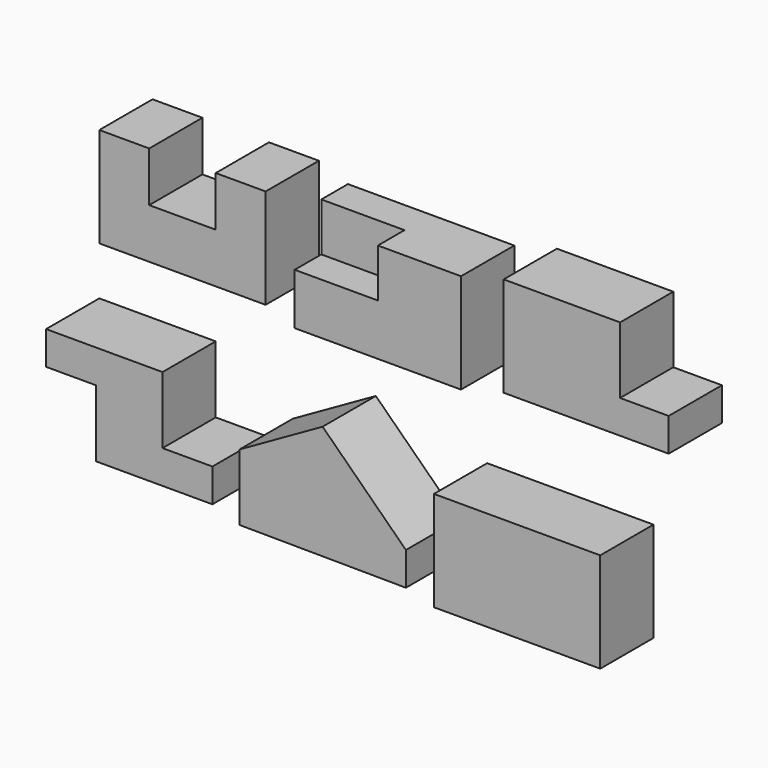
from build123d import *

# Parameters (mm, degrees)
F1_DEPTH  = 101.6
F2_W      = 254
F2_H      = 152.4
F3_DEPTH  = 25.4
F4_DEPTH  = 25.4
F5_DEPTH  = 101.6
F6_W      = 127
F6_H      = 50.8
F7_DEPTH  = 73.914
F8_W      = 50.8
F8_H      = 152.4
F9_DEPTH  = 101.6
F11_DEPTH = 101.6
F13_DEPTH = 101.6
F14_W     = 254
F14_H     = 152.4
F14_W_2   = 203.2
F14_H_2   = 101.6
F15_DEPTH = 101.6


with BuildPart() as f1:
    # F0 (on Front) → F1 (new body)
    with BuildSketch(Plane.XZ):
        Polygon((0, 152.4), (0, 0), (254, 0), (254, 152.4), (177.8, 152.4), (177.8, 76.2), (76.2, 76.2), (76.2, 152.4), align=None)
    extrude(amount=-F1_DEPTH)


with BuildPart() as f3:
    # F2 (on Front) → F3 (new body)
    with BuildSketch(Plane.XZ):
        with Locations((445.69599095, 76.2)):
            Rectangle(F2_W, F2_H)
    extrude(amount=F3_DEPTH)

    # F4 (add): a face of the model
    f4_faces = [f3.faces().sort_by_distance(p)[0] for p in [
        (445.69599095, -12.7, 152.4),
    ]]
    extrude(f4_faces, amount=-F4_DEPTH)

    # F5 (add): a face of the model
    f5_faces = [f3.faces().sort_by_distance(p)[0] for p in [
        (445.69599095, -25.4, 76.2),
    ]]
    extrude(f5_faces, amount=-F5_DEPTH)

    # F6 (on face) → F7 (cut)
    with BuildSketch(Plane.XY.offset(152.4)):
        with Locations((382.19599095, 0)):
            Rectangle(F6_W, F6_H)
    extrude(amount=-F7_DEPTH, mode=Mode.SUBTRACT)


with BuildPart() as f9:
    # F8 (on Front) → F9 (new body)
    with BuildSketch(Plane.XZ):
        Polygon((668.2515941393, 152.4), (668.2515941393, 0), (869.4976955753, 0), (869.4976955753, 50.8), (795.2515941393, 50.8), (795.2515941393, 152.4), align=None)
        with Locations((642.8515941393, 76.2)):
            Rectangle(F8_W, F8_H)
    extrude(amount=-F9_DEPTH)


with BuildPart() as f11:
    # F10 (on Front) → F11 (new body)
    with BuildSketch(Plane.XZ):
        Polygon((177.8, -73.8908549448), (0, -73.8908549448), (0, -124.6908549448), (76.2, -124.6908549448), (76.2, -226.9003139168), (254, -226.9003139168), (254, -176.1003139168), (177.8, -176.1003139168), align=None)
    extrude(amount=F11_DEPTH)


with BuildPart() as f13:
    # F12 (on Front) → F13 (new body)
    with BuildSketch(Plane.XZ):
        Polygon((295.5057420384, -139.5811057088), (295.5057420384, -241.1811057088), (549.4994439671, -242.9697869319), (549.4994439671, -192.1697869319), (422.2727364604, -67.8086321592), align=None)
    extrude(amount=F13_DEPTH)


with BuildPart() as f15:
    # F14 (on Front) → F15 (new body)
    with BuildSketch(Plane.XZ):
        with Locations((719.2486805237, -179.0699698031)):
            Rectangle(F14_W, F14_H)
        with Locations((719.2486805237, -179.0699698031)):
            Rectangle(F14_W_2, F14_H_2, mode=Mode.SUBTRACT)
        with Locations((719.2486805237, -179.0699698031)):
            Rectangle(F14_W_2, F14_H_2)
    extrude(amount=F15_DEPTH)


solid = Compound([f1.part, f3.part, f9.part, f11.part, f13.part, f15.part])
